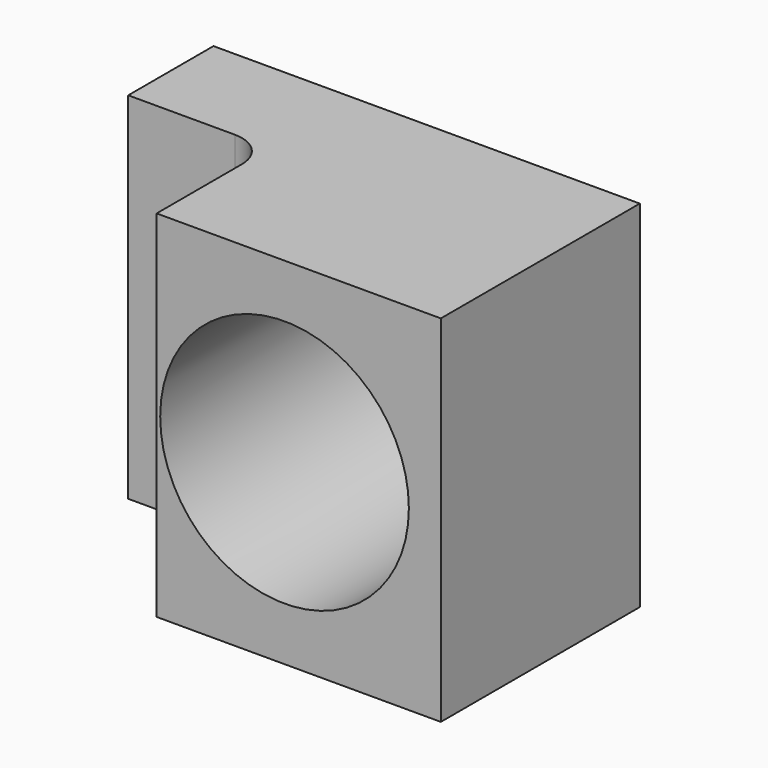
from build123d import *

# Parameters (mm, degrees)
F1_DEPTH = 5
F2_R     = 1.75
F3_DEPTH = 25


with BuildPart() as f1:
    # F0 (on Top) → F1 (new body)
    with BuildSketch(Plane.XY):
        with BuildLine():
            Line((-4, 0), (0, 0))
            Line((0, 0), (0, 3.5))
            Line((0, 3.5), (-6, 3.5))
            Line((-6, 3.5), (-6, 2))
            Line((-6, 2), (-4.5, 2))
            ThreePointArc((-4.5, 2), (-4.146447, 1.853553), (-4, 1.5))
            Line((-4, 1.5), (-4, 0))
        make_face()
    extrude(amount=F1_DEPTH)

    # F2 (on face) → F3 (cut)
    with BuildSketch(Plane(origin=(0, 3.5, 0), x_dir=(-1, 0, 0), z_dir=(0, 1, 0))):
        with Locations((2.2, 2.5)):
            Circle(F2_R)
    extrude(amount=-F3_DEPTH, mode=Mode.SUBTRACT)


solid = f1.part
